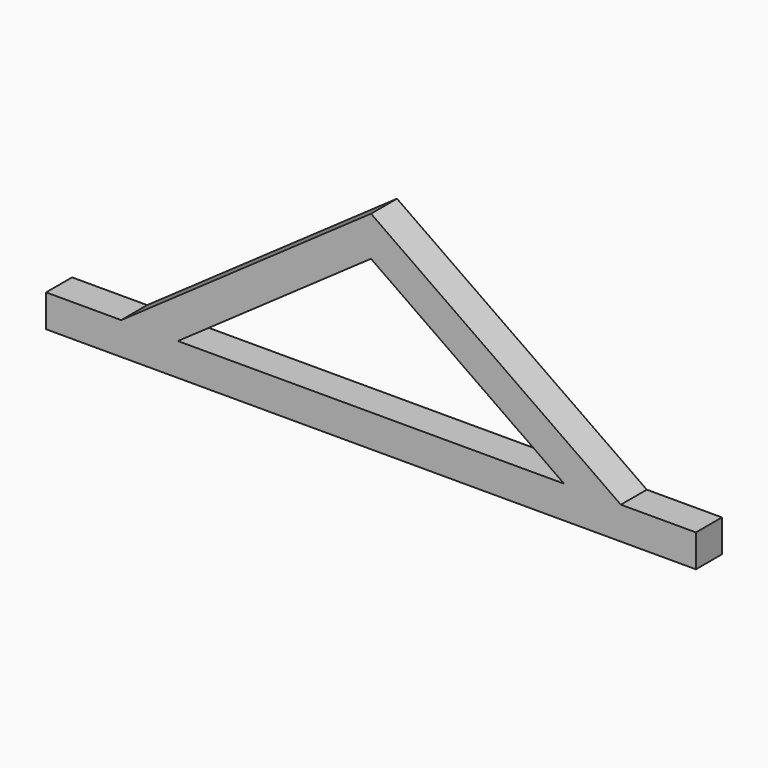
from build123d import *

# Parameters (mm, degrees)
F1_DEPTH = 25


with BuildPart() as f1:
    # F0 (on Front) → F1 (new body)
    with BuildSketch(Plane.XZ):
        Polygon((0, 159.585808), (-192.208454, 25), (-148.622284, 25), (0, 129.066444), (148.622284, 25), (192.208454, 25), align=None)
        Polygon((-250, 25), (-250, 0), (250, 0), (250, 25), (192.208454, 25), (148.622284, 25), (-148.622284, 25), (-192.208454, 25), align=None)
    extrude(amount=F1_DEPTH)


solid = f1.part
